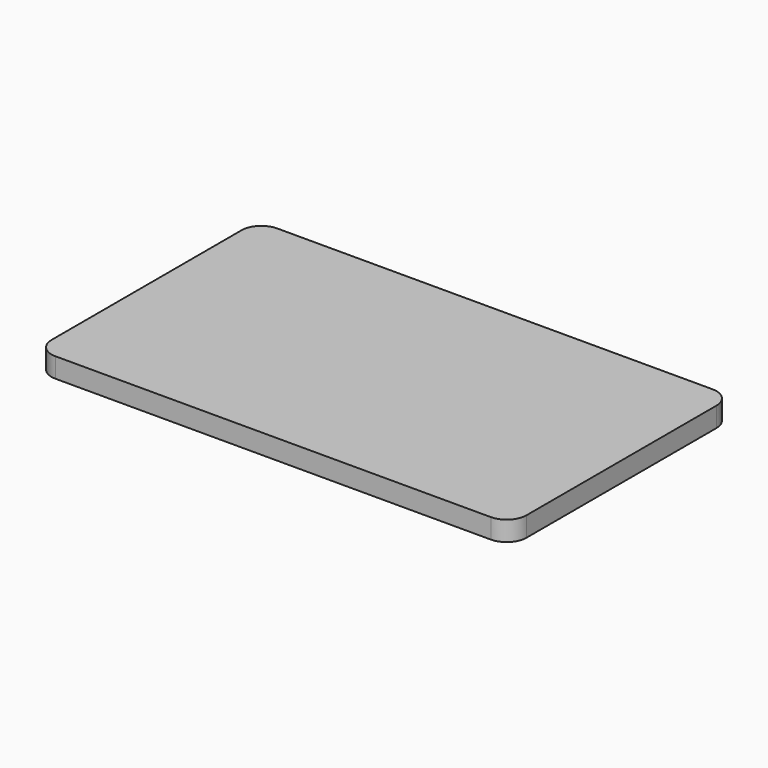
from build123d import *

# Parameters (mm, degrees)
F1_DEPTH = 12.7


with BuildPart() as f1:
    # F0 (on Top) → F1 (new body)
    with BuildSketch(Plane.XY):
        with BuildLine():
            ThreePointArc((-139.7, 63.5), (-148.6802561211, 67.2197438789), (-152.4, 76.2))
            Line((-152.4, 76.2), (-152.4, -76.2))
            ThreePointArc((-152.4, -76.2), (-148.6802561211, -67.2197438789), (-139.7, -63.5))
            Line((-139.7, -63.5), (-139.7, 63.5))
        make_face()
        with BuildLine():
            ThreePointArc((-139.7, -63.5), (-148.6802561211, -67.2197438789), (-152.4, -76.2))
            ThreePointArc((-152.4, -76.2), (-148.6802561211, -85.1802561211), (-139.7, -88.9))
            ThreePointArc((-139.7, -88.9), (-130.7197438789, -85.1802561211), (-127, -76.2))
            Line((-127, -76.2), (-139.7, -76.2))
            Line((-139.7, -76.2), (-139.7, -63.5))
        make_face()
        with BuildLine():
            Line((127, 76.2), (-127, 76.2))
            ThreePointArc((-127, 76.2), (-130.7197438789, 67.2197438789), (-139.7, 63.5))
            Line((-139.7, 63.5), (-139.7, -63.5))
            ThreePointArc((-139.7, -63.5), (-130.7197438789, -67.2197438789), (-127, -76.2))
            Line((-127, -76.2), (127, -76.2))
            ThreePointArc((127, -76.2), (130.7197438789, -67.2197438789), (139.7, -63.5))
            Line((139.7, -63.5), (139.7, 63.5))
            ThreePointArc((139.7, 63.5), (130.7197438789, 67.2197438789), (127, 76.2))
        make_face()
        with BuildLine():
            ThreePointArc((-127, 76.2), (-130.7197438789, 85.1802561211), (-139.7, 88.9))
            ThreePointArc((-139.7, 88.9), (-148.6802561211, 85.1802561211), (-152.4, 76.2))
            ThreePointArc((-152.4, 76.2), (-148.6802561211, 67.2197438789), (-139.7, 63.5))
            Line((-139.7, 63.5), (-139.7, 76.2))
            Line((-139.7, 76.2), (-127, 76.2))
        make_face()
        with BuildLine():
            ThreePointArc((-139.7, 63.5), (-130.7197438789, 67.2197438789), (-127, 76.2))
            Line((-127, 76.2), (-139.7, 76.2))
            Line((-139.7, 76.2), (-139.7, 63.5))
        make_face()
        with BuildLine():
            Line((139.7000001575, 88.9), (-139.7, 88.9))
            ThreePointArc((-139.7, 88.9), (-130.7197438789, 85.1802561211), (-127, 76.2))
            Line((-127, 76.2), (127, 76.2))
            ThreePointArc((127, 76.2), (130.7197439346, 85.1802561767), (139.7000001575, 88.9))
        make_face()
        with BuildLine():
            ThreePointArc((152.4, 76.2), (148.6802561767, 85.1802560654), (139.7000001575, 88.9))
            ThreePointArc((139.7000001575, 88.9), (130.7197439346, 85.1802561767), (127, 76.2))
            Line((127, 76.2), (139.7, 76.2))
            Line((139.7, 76.2), (139.7, 63.5))
            ThreePointArc((139.7, 63.5), (148.6802561211, 67.2197438789), (152.4, 76.2))
        make_face()
        with BuildLine():
            Line((139.7, 76.2), (127, 76.2))
            ThreePointArc((127, 76.2), (130.7197438789, 67.2197438789), (139.7, 63.5))
            Line((139.7, 63.5), (139.7, 76.2))
        make_face()
        with BuildLine():
            Line((152.4, -76.2), (152.4, 76.2))
            ThreePointArc((152.4, 76.2), (148.6802561211, 67.2197438789), (139.7, 63.5))
            Line((139.7, 63.5), (139.7, -63.5))
            ThreePointArc((139.7, -63.5), (148.6802561211, -67.2197438789), (152.4, -76.2))
        make_face()
        with BuildLine():
            Line((139.7, -76.2), (139.7, -63.5))
            ThreePointArc((139.7, -63.5), (130.7197438789, -67.2197438789), (127, -76.2))
            Line((127, -76.2), (139.7, -76.2))
        make_face()
        with BuildLine():
            ThreePointArc((139.7, -88.9), (148.6802561211, -85.1802561211), (152.4, -76.2))
            ThreePointArc((152.4, -76.2), (148.6802561211, -67.2197438789), (139.7, -63.5))
            Line((139.7, -63.5), (139.7, -76.2))
            Line((139.7, -76.2), (127, -76.2))
            ThreePointArc((127, -76.2), (130.7197438789, -85.1802561211), (139.7, -88.9))
        make_face()
        with BuildLine():
            ThreePointArc((-127, -76.2), (-130.7197438789, -85.1802561211), (-139.7, -88.9))
            Line((-139.7, -88.9), (139.7, -88.9))
            ThreePointArc((139.7, -88.9), (130.7197438789, -85.1802561211), (127, -76.2))
            Line((127, -76.2), (-127, -76.2))
        make_face()
        with BuildLine():
            ThreePointArc((-127, -76.2), (-130.7197438789, -67.2197438789), (-139.7, -63.5))
            Line((-139.7, -63.5), (-139.7, -76.2))
            Line((-139.7, -76.2), (-127, -76.2))
        make_face()
    extrude(amount=F1_DEPTH)


solid = f1.part
